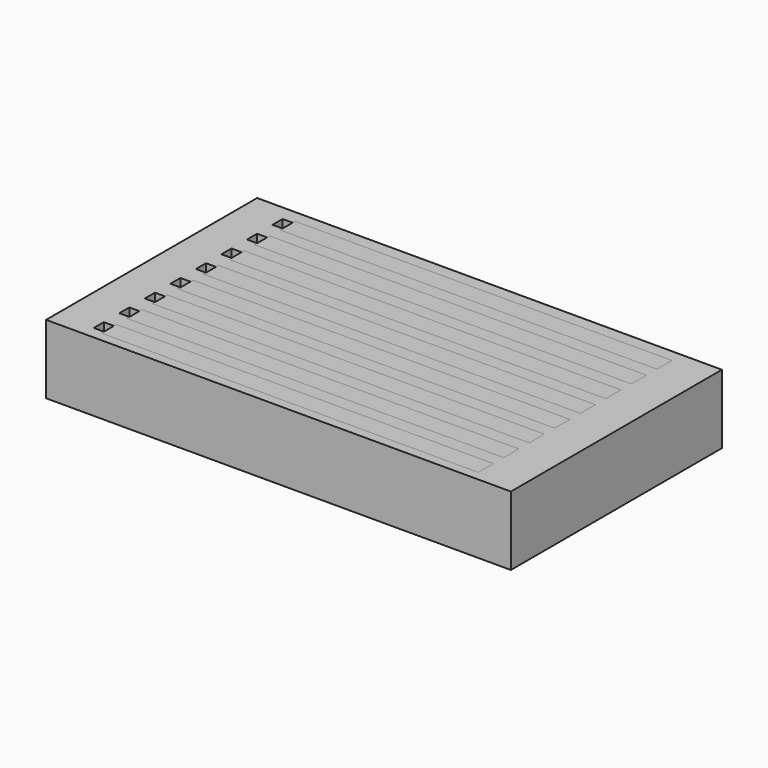
from build123d import *

# Parameters (mm, degrees)
BOX010_W     = 30
BOX010_H     = 1.5
BOX010_DEPTH = 5.5
BOX011_W     = 30
BOX011_H     = 1.5
BOX011_DEPTH = 5.5
BOX012_W     = 30
BOX012_H     = 1.5
BOX012_DEPTH = 5.5
BOX013_W     = 30
BOX013_H     = 1.5
BOX013_DEPTH = 5.5
BOX014_W     = 30
BOX014_H     = 1.5
BOX014_DEPTH = 5.5
BOX015_W     = 30
BOX015_H     = 1.5
BOX015_DEPTH = 5.5
BOX016_W     = 30
BOX016_H     = 1.5
BOX016_DEPTH = 5.5
BOX009_W     = 30
BOX009_H     = 1.5
BOX009_DEPTH = 5.5
BOX018_W     = 30
BOX018_H     = 1.5
BOX018_DEPTH = 5.5
BOX019_W     = 30
BOX019_H     = 1.5
BOX019_DEPTH = 5.5
BOX020_W     = 30
BOX020_H     = 1.5
BOX020_DEPTH = 5.5
BOX021_W     = 30
BOX021_H     = 1.5
BOX021_DEPTH = 5.5
BOX022_W     = 30
BOX022_H     = 1.5
BOX022_DEPTH = 5.5
BOX023_W     = 30
BOX023_H     = 1.5
BOX023_DEPTH = 5.5
BOX024_W     = 30
BOX024_H     = 1.5
BOX024_DEPTH = 5.5
BOX017_W     = 30
BOX017_H     = 1.5
BOX017_DEPTH = 5.5
BOX002_W     = 0.8
BOX002_H     = 1
BOX002_DEPTH = 10
BOX003_W     = 0.8
BOX003_H     = 1
BOX003_DEPTH = 10
BOX004_W     = 0.8
BOX004_H     = 1
BOX004_DEPTH = 10
BOX005_W     = 0.8
BOX005_H     = 1
BOX005_DEPTH = 10
BOX006_W     = 0.8
BOX006_H     = 1
BOX006_DEPTH = 10
BOX007_W     = 0.8
BOX007_H     = 1
BOX007_DEPTH = 10
BOX008_W     = 0.8
BOX008_H     = 1
BOX008_DEPTH = 10
BOX001_W     = 0.8
BOX001_H     = 1
BOX001_DEPTH = 10
BOX_W        = 37
BOX_H        = 21
BOX_DEPTH    = 5.5


with BuildPart() as cube010:
    # Box010 → Box010 (new body)
    with BuildSketch(Plane(origin=(3.8, 3.29, 0), x_dir=(1, 0, 0), z_dir=(0, 0, 1))):
        with Locations((15, 0.75)):
            Rectangle(BOX010_W, BOX010_H)
    extrude(amount=BOX010_DEPTH)


with BuildPart() as cube011:
    # Box011 → Box011 (new body)
    with BuildSketch(Plane(origin=(3.8, 5.83, 0), x_dir=(1, 0, 0), z_dir=(0, 0, 1))):
        with Locations((15, 0.75)):
            Rectangle(BOX011_W, BOX011_H)
    extrude(amount=BOX011_DEPTH)


with BuildPart() as cube012:
    # Box012 → Box012 (new body)
    with BuildSketch(Plane(origin=(3.8, 8.37, 0), x_dir=(1, 0, 0), z_dir=(0, 0, 1))):
        with Locations((15, 0.75)):
            Rectangle(BOX012_W, BOX012_H)
    extrude(amount=BOX012_DEPTH)


with BuildPart() as cube013:
    # Box013 → Box013 (new body)
    with BuildSketch(Plane(origin=(3.8, 10.91, 0), x_dir=(1, 0, 0), z_dir=(0, 0, 1))):
        with Locations((15, 0.75)):
            Rectangle(BOX013_W, BOX013_H)
    extrude(amount=BOX013_DEPTH)


with BuildPart() as cube014:
    # Box014 → Box014 (new body)
    with BuildSketch(Plane(origin=(3.8, 13.45, 0), x_dir=(1, 0, 0), z_dir=(0, 0, 1))):
        with Locations((15, 0.75)):
            Rectangle(BOX014_W, BOX014_H)
    extrude(amount=BOX014_DEPTH)


with BuildPart() as cube015:
    # Box015 → Box015 (new body)
    with BuildSketch(Plane(origin=(3.8, 15.99, 0), x_dir=(1, 0, 0), z_dir=(0, 0, 1))):
        with Locations((15, 0.75)):
            Rectangle(BOX015_W, BOX015_H)
    extrude(amount=BOX015_DEPTH)


with BuildPart() as cube016:
    # Box016 → Box016 (new body)
    with BuildSketch(Plane(origin=(3.8, 18.53, 0), x_dir=(1, 0, 0), z_dir=(0, 0, 1))):
        with Locations((15, 0.75)):
            Rectangle(BOX016_W, BOX016_H)
    extrude(amount=BOX016_DEPTH)


with BuildPart() as conducting_filament:
    # Box009 → Box009 (new body)
    with BuildSketch(Plane(origin=(3.8, 0.75, 0), x_dir=(1, 0, 0), z_dir=(0, 0, 1))):
        with Locations((15, 0.75)):
            Rectangle(BOX009_W, BOX009_H)
    extrude(amount=BOX009_DEPTH)

    # Fusion: union Cube010, Cube011, Cube012, Cube013, Cube014, Cube015, Cube016
    add(cube010.part)
    add(cube011.part)
    add(cube012.part)
    add(cube013.part)
    add(cube014.part)
    add(cube015.part)
    add(cube016.part)


with BuildPart() as cube018:
    # Box018 → Box018 (new body)
    with BuildSketch(Plane(origin=(3.8, 10.91, 0), x_dir=(1, 0, 0), z_dir=(0, 0, 1))):
        with Locations((15, 0.75)):
            Rectangle(BOX018_W, BOX018_H)
    extrude(amount=BOX018_DEPTH)


with BuildPart() as cube019:
    # Box019 → Box019 (new body)
    with BuildSketch(Plane(origin=(3.8, 3.29, 0), x_dir=(1, 0, 0), z_dir=(0, 0, 1))):
        with Locations((15, 0.75)):
            Rectangle(BOX019_W, BOX019_H)
    extrude(amount=BOX019_DEPTH)


with BuildPart() as cube020:
    # Box020 → Box020 (new body)
    with BuildSketch(Plane(origin=(3.8, 5.83, 0), x_dir=(1, 0, 0), z_dir=(0, 0, 1))):
        with Locations((15, 0.75)):
            Rectangle(BOX020_W, BOX020_H)
    extrude(amount=BOX020_DEPTH)


with BuildPart() as cube021:
    # Box021 → Box021 (new body)
    with BuildSketch(Plane(origin=(3.8, 18.53, 0), x_dir=(1, 0, 0), z_dir=(0, 0, 1))):
        with Locations((15, 0.75)):
            Rectangle(BOX021_W, BOX021_H)
    extrude(amount=BOX021_DEPTH)


with BuildPart() as cube022:
    # Box022 → Box022 (new body)
    with BuildSketch(Plane(origin=(3.8, 15.99, 0), x_dir=(1, 0, 0), z_dir=(0, 0, 1))):
        with Locations((15, 0.75)):
            Rectangle(BOX022_W, BOX022_H)
    extrude(amount=BOX022_DEPTH)


with BuildPart() as cube023:
    # Box023 → Box023 (new body)
    with BuildSketch(Plane(origin=(3.8, 8.37, 0), x_dir=(1, 0, 0), z_dir=(0, 0, 1))):
        with Locations((15, 0.75)):
            Rectangle(BOX023_W, BOX023_H)
    extrude(amount=BOX023_DEPTH)


with BuildPart() as cube024:
    # Box024 → Box024 (new body)
    with BuildSketch(Plane(origin=(3.8, 13.45, 0), x_dir=(1, 0, 0), z_dir=(0, 0, 1))):
        with Locations((15, 0.75)):
            Rectangle(BOX024_W, BOX024_H)
    extrude(amount=BOX024_DEPTH)


with BuildPart() as fusion002:
    # Box017 → Box017 (new body)
    with BuildSketch(Plane(origin=(3.8, 0.75, 0), x_dir=(1, 0, 0), z_dir=(0, 0, 1))):
        with Locations((15, 0.75)):
            Rectangle(BOX017_W, BOX017_H)
    extrude(amount=BOX017_DEPTH)

    # Fusion002: union Cube018, Cube019, Cube020, Cube021, Cube022, Cube023, Cube024
    add(cube018.part)
    add(cube019.part)
    add(cube020.part)
    add(cube021.part)
    add(cube022.part)
    add(cube023.part)
    add(cube024.part)


with BuildPart() as cube002:
    # Box002 → Box002 (new body)
    with BuildSketch(Plane(origin=(3, 3.54, -3), x_dir=(1, 0, 0), z_dir=(0, 0, 1))):
        with Locations((0.4, 0.5)):
            Rectangle(BOX002_W, BOX002_H)
    extrude(amount=BOX002_DEPTH)


with BuildPart() as cube003:
    # Box003 → Box003 (new body)
    with BuildSketch(Plane(origin=(3, 6.08, -3), x_dir=(1, 0, 0), z_dir=(0, 0, 1))):
        with Locations((0.4, 0.5)):
            Rectangle(BOX003_W, BOX003_H)
    extrude(amount=BOX003_DEPTH)


with BuildPart() as cube004:
    # Box004 → Box004 (new body)
    with BuildSketch(Plane(origin=(3, 8.62, -3), x_dir=(1, 0, 0), z_dir=(0, 0, 1))):
        with Locations((0.4, 0.5)):
            Rectangle(BOX004_W, BOX004_H)
    extrude(amount=BOX004_DEPTH)


with BuildPart() as cube005:
    # Box005 → Box005 (new body)
    with BuildSketch(Plane(origin=(3, 11.16, -3), x_dir=(1, 0, 0), z_dir=(0, 0, 1))):
        with Locations((0.4, 0.5)):
            Rectangle(BOX005_W, BOX005_H)
    extrude(amount=BOX005_DEPTH)


with BuildPart() as cube006:
    # Box006 → Box006 (new body)
    with BuildSketch(Plane(origin=(3, 13.7, -3), x_dir=(1, 0, 0), z_dir=(0, 0, 1))):
        with Locations((0.4, 0.5)):
            Rectangle(BOX006_W, BOX006_H)
    extrude(amount=BOX006_DEPTH)


with BuildPart() as cube007:
    # Box007 → Box007 (new body)
    with BuildSketch(Plane(origin=(3, 16.24, -3), x_dir=(1, 0, 0), z_dir=(0, 0, 1))):
        with Locations((0.4, 0.5)):
            Rectangle(BOX007_W, BOX007_H)
    extrude(amount=BOX007_DEPTH)


with BuildPart() as cube008:
    # Box008 → Box008 (new body)
    with BuildSketch(Plane(origin=(3, 18.78, -3), x_dir=(1, 0, 0), z_dir=(0, 0, 1))):
        with Locations((0.4, 0.5)):
            Rectangle(BOX008_W, BOX008_H)
    extrude(amount=BOX008_DEPTH)


with BuildPart() as fusion001:
    # Box001 → Box001 (new body)
    with BuildSketch(Plane(origin=(3, 1, -3), x_dir=(1, 0, 0), z_dir=(0, 0, 1))):
        with Locations((0.4, 0.5)):
            Rectangle(BOX001_W, BOX001_H)
    extrude(amount=BOX001_DEPTH)

    # Fusion001: union Cube002, Cube003, Cube004, Cube005, Cube006, Cube007, Cube008
    add(cube002.part)
    add(cube003.part)
    add(cube004.part)
    add(cube005.part)
    add(cube006.part)
    add(cube007.part)
    add(cube008.part)


with BuildPart() as main_body:
    # Box → Box (new body)
    with BuildSketch(Plane.XY):
        with Locations((18.5, 10.5)):
            Rectangle(BOX_W, BOX_H)
    extrude(amount=BOX_DEPTH)

    # Cut: cut Fusion001
    add(fusion001.part, mode=Mode.SUBTRACT)

    # Cut001: cut Fusion002
    add(fusion002.part, mode=Mode.SUBTRACT)


solid = Compound([conducting_filament.part, main_body.part])
